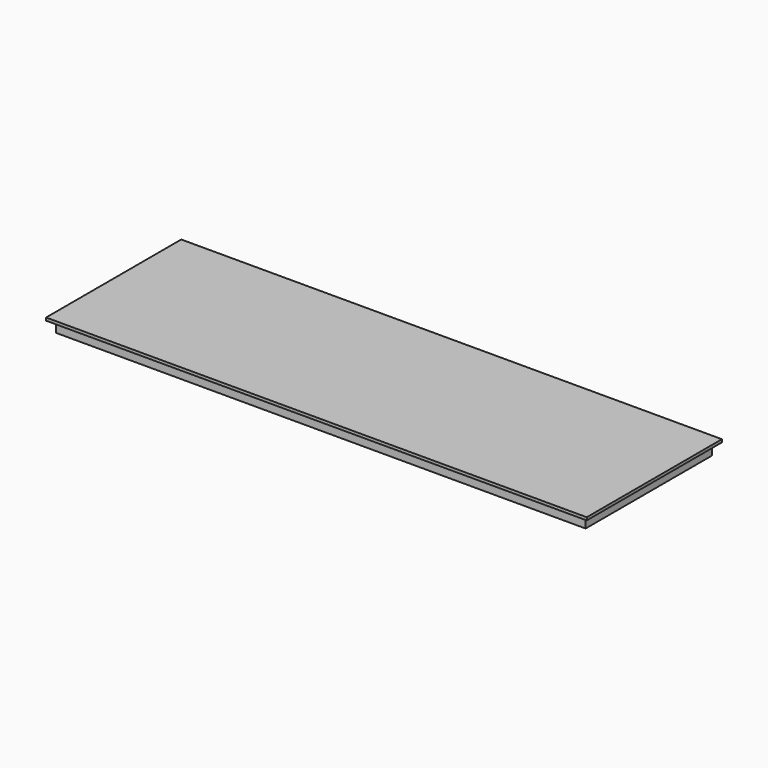
from build123d import *

# Parameters (mm, degrees)
F1_W     = 25.4
F1_H     = 50.8
F0_W     = 2438.4
F0_H     = 762
F3_DEPTH = 12.7


with BuildPart() as f2:
    # F2: sweep along a path in F0
    with BuildLine(Plane.XY) as f2_path:
        Line((1219.2, 381), (1219.2, -381))
        Line((1219.2, -381), (-1219.2, -381))
        Line((-1219.2, -381), (-1219.2, 381))
        Line((-1219.2, 381), (1219.2, 381))
    # F1 (on Front) → F2 (sweep)
    with BuildSketch(Plane.XZ):
        with Locations((1181.1, -25.4)):
            Rectangle(F1_W, F1_H)
    sweep(path=f2_path.line, transition=Transition.RIGHT)


with BuildPart() as f3:
    # F0 (on Top) → F3 (new body)
    with BuildSketch(Plane.XY):
        Rectangle(F0_W, F0_H)
    extrude(amount=F3_DEPTH)


solid = Compound([f2.part, f3.part])
